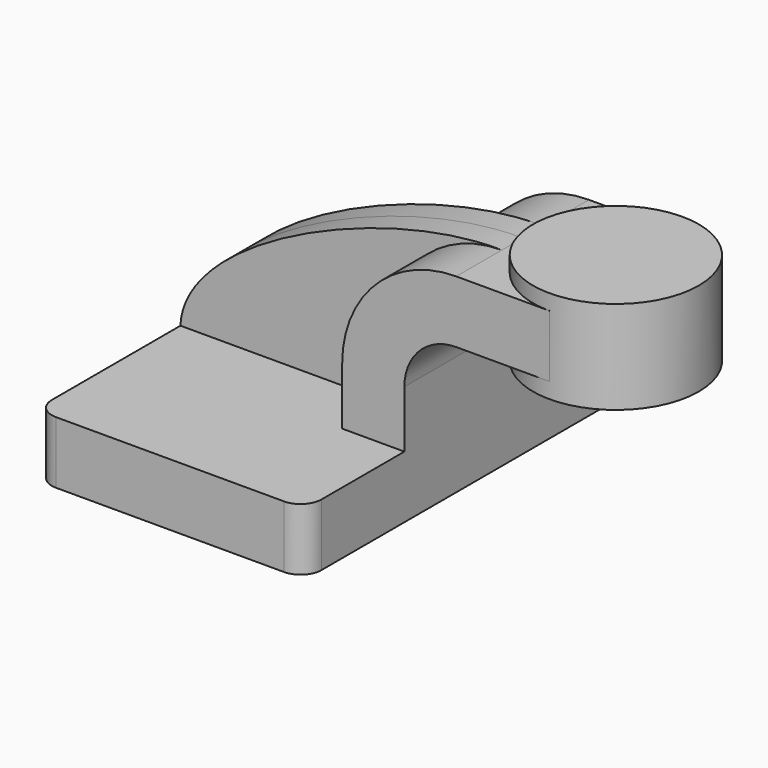
from build123d import *

# Parameters (mm, degrees)
F1_DEPTH = 63.5
F0_W     = 25.4
F0_H     = 19.05
F2_DEPTH = 25.4
F3_DEPTH = 7.9375
F4_R     = 6.35


with BuildPart() as f1:
    # F0 (on Front) → F1 (new body, symmetric)
    with BuildSketch(Plane.XZ):
        Polygon((-41.275, 9.525), (-41.275, -9.525), (41.275, -9.525), (41.275, 9.525), (22.225, 9.525), align=None)
    extrude(amount=F1_DEPTH, both=True)

    # F0 (on Front) → F2 (join, symmetric)
    with BuildSketch(Plane.XZ):
        with BuildLine():
            Line((22.225, 9.525), (41.275, 9.525))
            Line((41.275, 9.525), (41.275, 27.0002))
            ThreePointArc((41.275, 27.0002), (45.92468, 38.22552), (57.15, 42.8752))
            Line((57.15, 42.8752), (60.325, 42.8752))
            Line((60.325, 42.8752), (60.325, 61.9252))
            Line((60.325, 61.9252), (57.15, 61.9252))
            ThreePointArc((57.15, 61.9252), (32.454296, 51.695904), (22.225, 27.0002))
            Line((22.225, 27.0002), (22.225, 9.525))
        make_face()
        with Locations((73.025, 52.4002)):
            Rectangle(F0_W, F0_H)
    extrude(amount=F2_DEPTH, both=True)

    # F0 (on Front) → F3 (join, symmetric)
    with BuildSketch(Plane.XZ):
        with BuildLine():
            add(Edge.make_bspline(
                [(-41.275, 9.525), (-40.197041, 35.868797), (21.728976, 62.639967), (57.15, 61.9252)],
                knots=[0, 0, 0, 0, 111.504536, 111.504536, 111.504536, 111.504536], degree=3))
            Line((-41.275, 9.525), (22.225, 9.525))
            Line((22.225, 9.525), (22.225, 27.0002))
            ThreePointArc((22.225, 27.0002), (32.454296, 51.695904), (57.15, 61.9252))
        make_face()
    extrude(amount=F3_DEPTH, both=True)

    # F4
    f4_edges = [f1.edges().sort_by_distance(p)[0] for p in [
        (-41.275, -63.5, 0),
        (41.275, -63.5, 0),
        (41.275, 63.5, 0),
        (-41.275, 63.5, 0),
    ]]
    fillet(f4_edges, radius=F4_R)


with BuildPart() as f5:
    # F0 (on Front) → F5 (revolve)
    with BuildSketch(Plane.XZ):
        Polygon((85.725, 66.675), (85.725, 61.9252), (85.725, 42.8752), (85.725, 38.1), (111.125, 38.1), (111.125, 66.675), align=None)
    revolve(axis=Axis((85.725, 0, 52.3875), (0, 0, 1)))


solid = Compound([f1.part, f5.part])
